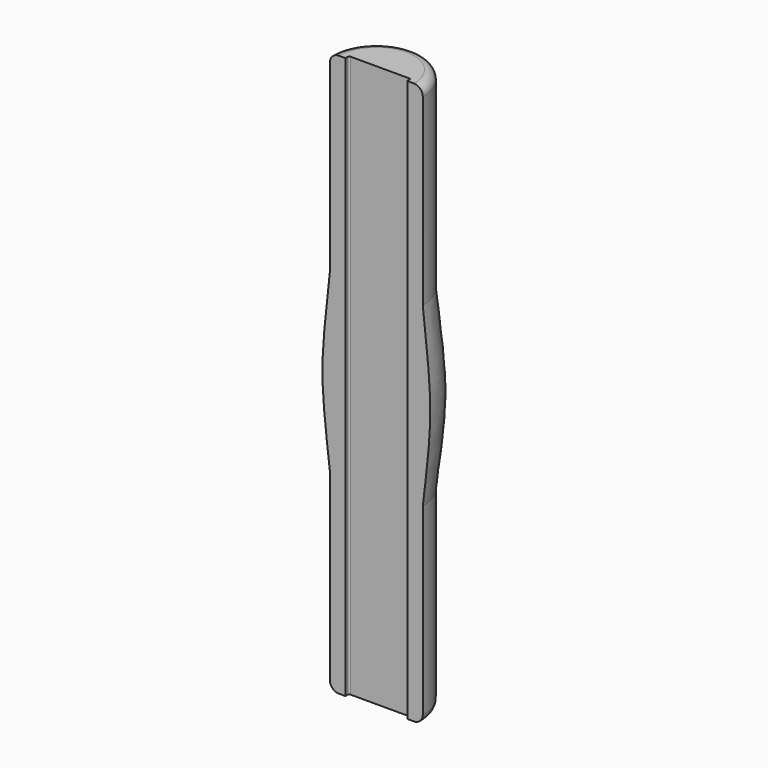
from build123d import *

# Parameters (mm, degrees)
F1_ANGLE = 180
F3_DEPTH = 127
F4_R     = 2
F5_R     = 2


with BuildPart() as f1:
    # F0 (on Front) → F1 (revolve)
    with BuildSketch(Plane.XZ):
        with BuildLine():
            Line((5.25, 63.5), (-5.25, 63.5))
            Line((-5.25, 63.5), (-5.25, 20))
            add(Edge.make_bspline(
                [(-5.25, 20), (-5.8853452496, 14.3080799964), (-7.0077819126, 4.2524138852), (-7.0249760105, -5.1144951824), (-5.8863231474, -14.6635947641), (-5.25, -20)],
                knots=[0, 0, 0, 0, 0.3652549784, 0.6452799944, 1, 1, 1, 1], degree=3))
            Line((-5.25, -20), (-5.25, -63.5))
            Line((-5.25, -63.5), (5.25, -63.5))
            Line((5.25, -63.5), (5.25, 63.5))
        make_face()
    revolve(axis=Axis((5.25, 0, 0), (0, 0, -1)), revolution_arc=F1_ANGLE)

    # F2 (on face) → F3 (cut)
    with BuildSketch(Plane.XY.offset(63.5)):
        with BuildLine():
            Line((-1.75, 0), (5.25, 0))
            Line((5.25, 0), (12.25, 0))
            Line((12.25, 0), (12.25, 0.7))
            ThreePointArc((12.25, 0.7), (12.1621320344, 0.9121320344), (11.95, 1))
            Line((11.95, 1), (-1.45, 1))
            ThreePointArc((-1.45, 1), (-1.6621320344, 0.9121320344), (-1.75, 0.7))
            Line((-1.75, 0.7), (-1.75, 0))
        make_face()
    extrude(amount=-F3_DEPTH, mode=Mode.SUBTRACT)

    # F4
    f4_edges = [f1.edges().sort_by_distance(p)[0] for p in [
        (5.25, 10.5, 63.5),
    ]]
    fillet(f4_edges, radius=F4_R)

    # F5
    f5_edges = [f1.edges().sort_by_distance(p)[0] for p in [
        (5.25, 10.5, -63.5),
    ]]
    fillet(f5_edges, radius=F5_R)


solid = f1.part
